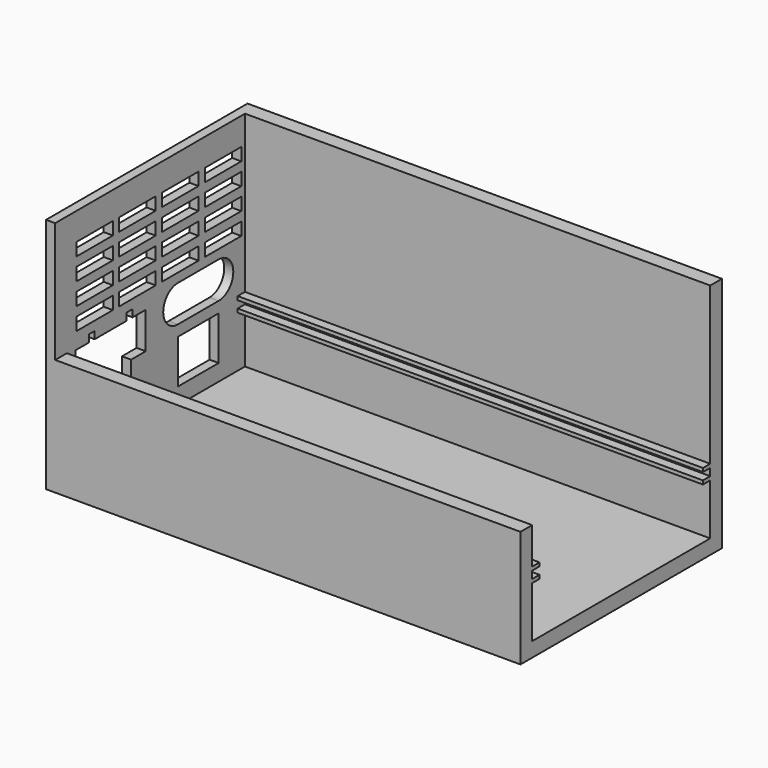
from build123d import *

# Parameters (mm, degrees)
F1_DEPTH = 130
F2_W     = 14
F2_H     = 12
F2_W_2   = 12.5
F2_H_2   = 3.5
F3_DEPTH = 2.5


with BuildPart() as f1:
    # F0 (on Right) → F1 (new body)
    with BuildSketch(Plane.YZ):
        Polygon((0, 32), (0, 0), (69, 0), (69, 65), (65, 65), (65, 22), (62.5, 22), (62.5, 21), (65, 21), (65, 19), (62.5, 19), (62.5, 18), (65, 18), (65, 4), (4, 4), (4, 18), (6.5, 18), (6.5, 19), (4, 19), (4, 21), (6.5, 21), (6.5, 22), (4, 22), (4, 32), align=None)
    extrude(amount=F1_DEPTH)

    # F2 (on face) → F3 (join)
    with BuildSketch(Plane(origin=(0, 0, 0), x_dir=(0, -1, 0), z_dir=(-1, 0, 0))):
        Polygon((-4, 32), (0, 32), (0, 65), (-65, 65), (-65, 22), (-62.5, 22), (-62.5, 21), (-65, 21), (-65, 19), (-62.5, 19), (-62.5, 18), (-65, 18), (-65, 4), (-4, 4), (-4, 18), (-6.5, 18), (-6.5, 19), (-4, 19), (-4, 21), (-6.5, 21), (-6.5, 22), (-4, 22), align=None)
        with Locations((-49, 14.5)):
            Rectangle(F2_W, F2_H, mode=Mode.SUBTRACT)
        with BuildLine():
            Line((-42, 23.5), (-56, 23.5))
            ThreePointArc((-56, 23.5), (-61, 28.5), (-56, 33.5))
            Line((-56, 33.5), (-42, 33.5))
            ThreePointArc((-42, 33.5), (-37, 28.5), (-42, 23.5))
        make_face(mode=Mode.SUBTRACT)
        Polygon((-11.5, 31.5), (-7, 31.5), (-7, 21.5), (-16, 21.5), (-16, 8.5), (-26, 8.5), (-26, 21.5), (-31, 21.5), (-31, 31.5), (-26.5, 31.5), (-26.5, 33.5), (-24.5, 33.5), (-24.5, 31.5), (-13.5, 31.5), (-13.5, 33.5), (-11.5, 33.5), align=None, mode=Mode.SUBTRACT)
        with Locations((-57.5, 37.75)):
            Rectangle(F2_W_2, F2_H_2, mode=Mode.SUBTRACT)
        with Locations((-57.5, 43.75)):
            Rectangle(F2_W_2, F2_H_2, mode=Mode.SUBTRACT)
        with Locations((-42.833333, 37.75)):
            Rectangle(F2_W_2, F2_H_2, mode=Mode.SUBTRACT)
        with Locations((-42.833333, 43.75)):
            Rectangle(F2_W_2, F2_H_2, mode=Mode.SUBTRACT)
        with Locations((-57.5, 49.75)):
            Rectangle(F2_W_2, F2_H_2, mode=Mode.SUBTRACT)
        with Locations((-57.5, 55.75)):
            Rectangle(F2_W_2, F2_H_2, mode=Mode.SUBTRACT)
        with Locations((-42.833333, 49.75)):
            Rectangle(F2_W_2, F2_H_2, mode=Mode.SUBTRACT)
        with Locations((-42.833333, 55.75)):
            Rectangle(F2_W_2, F2_H_2, mode=Mode.SUBTRACT)
        with Locations((-28.166667, 37.75)):
            Rectangle(F2_W_2, F2_H_2, mode=Mode.SUBTRACT)
        with Locations((-28.166667, 43.75)):
            Rectangle(F2_W_2, F2_H_2, mode=Mode.SUBTRACT)
        with Locations((-13.5, 37.75)):
            Rectangle(F2_W_2, F2_H_2, mode=Mode.SUBTRACT)
        with Locations((-13.5, 43.75)):
            Rectangle(F2_W_2, F2_H_2, mode=Mode.SUBTRACT)
        with Locations((-28.166667, 49.75)):
            Rectangle(F2_W_2, F2_H_2, mode=Mode.SUBTRACT)
        with Locations((-28.166667, 55.75)):
            Rectangle(F2_W_2, F2_H_2, mode=Mode.SUBTRACT)
        with Locations((-13.5, 49.75)):
            Rectangle(F2_W_2, F2_H_2, mode=Mode.SUBTRACT)
        with Locations((-13.5, 55.75)):
            Rectangle(F2_W_2, F2_H_2, mode=Mode.SUBTRACT)
    extrude(amount=-F3_DEPTH)


solid = f1.part
